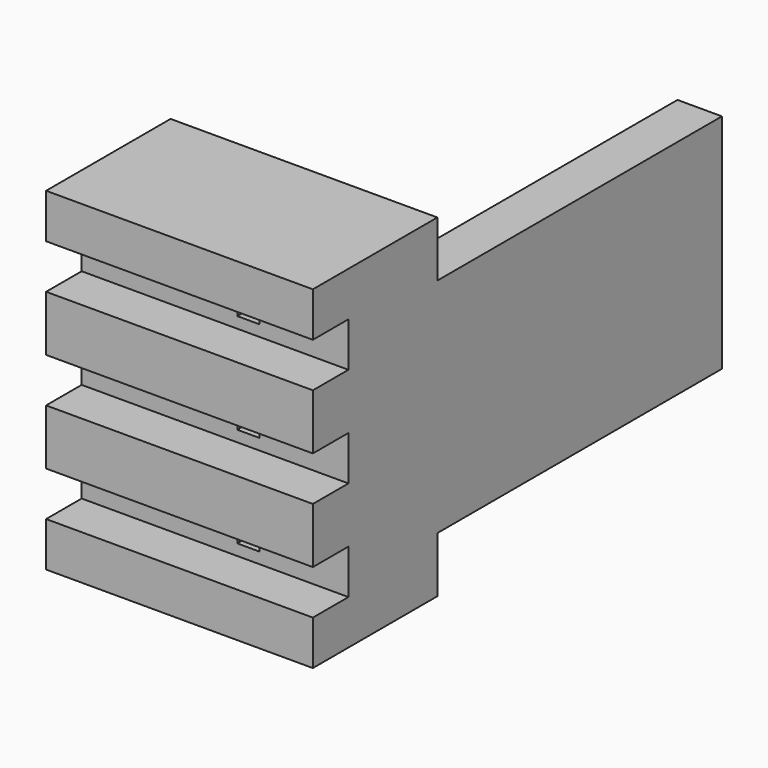
from build123d import *

# Parameters (mm, degrees)
F1_DEPTH = 7.5
F2_W     = 8
F2_H     = 1.25
F3_DEPTH = 25
F4_W     = 0.5
F4_H     = 0.5
F5_DEPTH = 25
F6_W     = 6
F6_H     = 1
F7_DEPTH = 1


with BuildPart() as f1:
    # F0 (on Top) → F1 (new body)
    with BuildSketch(Plane.XY):
        Polygon((0, 3.5), (0, 0), (6, 0), (6, 11.5), (5, 11.5), (5, 3.5), align=None)
    extrude(amount=F1_DEPTH)

    # F2 (on face) → F3 (cut)
    with BuildSketch(Plane(origin=(5, 0, 0), x_dir=(0, -1, 0), z_dir=(-1, 0, 0))):
        with Locations((-7.5, 0.625)):
            Rectangle(F2_W, F2_H)
        with Locations((-7.5, 6.875)):
            Rectangle(F2_W, F2_H)
    extrude(amount=-F3_DEPTH, mode=Mode.SUBTRACT)

    # F4 (on face) → F5 (cut)
    with BuildSketch(Plane(origin=(0, 3.5, 0), x_dir=(-1, 0, 0), z_dir=(0, 1, 0))):
        with Locations((-3.75, 6)):
            Rectangle(F4_W, F4_H)
        with Locations((-3.75, 1.5)):
            Rectangle(F4_W, F4_H)
        with Locations((-3.75, 3.75)):
            Rectangle(F4_W, F4_H)
    extrude(amount=-F5_DEPTH, mode=Mode.SUBTRACT)

    # F6 (on face) → F7 (cut)
    with BuildSketch(Plane.XZ):
        with Locations((3, 6)):
            Rectangle(F6_W, F6_H)
        with Locations((3, 3.75)):
            Rectangle(F6_W, F6_H)
        with Locations((3, 1.5)):
            Rectangle(F6_W, F6_H)
    extrude(amount=-F7_DEPTH, mode=Mode.SUBTRACT)


solid = f1.part
